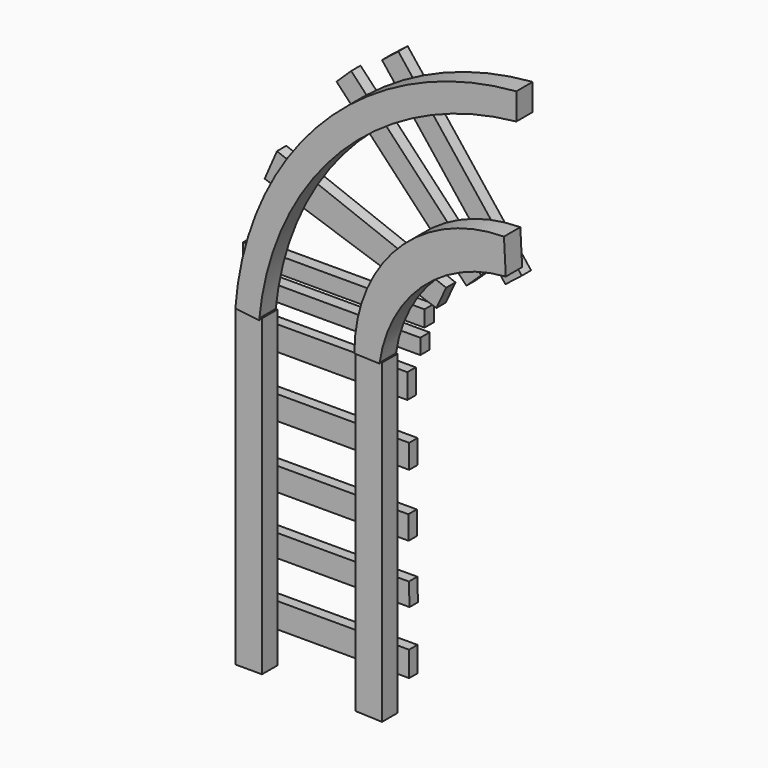
from build123d import *

# Parameters (mm, degrees)
F1_DEPTH = 4.191
F3_DEPTH = 2.286
F5_DEPTH = 4.445
F6_W     = 39.433528
F6_H     = 3.509536
F7_DEPTH = 2.54


with BuildPart() as f1:
    # F0 (on Front) → F1 (new body)
    with BuildSketch(Plane.XZ):
        Polygon((-57.963263, 55.789638), (-63.759588, 55.996653), (-63.759588, -12.317193), (-57.963263, -12.317193), align=None)
        Polygon((-37.676118, 55.789638), (-37.676118, -12.731216), (-31.879794, -12.938244), (-31.879794, 55.789638), align=None)
    extrude(amount=F1_DEPTH)


with BuildPart() as f3:
    # F2 (on Front) → F3 (new body)
    with BuildSketch(Plane.XZ):
        Polygon((-29.343544, 0), (-66.561639, 0), (-66.561639, -5.438766), (-29.333634, -5.438766), align=None)
        Polygon((-29.392071, 13.026311), (-66.347785, 13.026311), (-66.347785, 8.180217), (-29.245931, 8.180217), align=None)
        Polygon((-29.507961, 25.863055), (-66.645918, 25.863055), (-66.694123, 20.803697), (-29.441803, 20.803697), align=None)
        Polygon((-29.323313, 39.587658), (-66.647872, 39.587658), (-66.642486, 34.418572), (-29.323313, 34.418572), align=None)
        Polygon((-29.716219, 52.974727), (-66.481624, 52.936418), (-66.481624, 47.646478), (-29.716219, 47.646478), align=None)
    extrude(amount=-F3_DEPTH)


with BuildPart() as f5:
    # F4 (on Front) → F5 (new body)
    with BuildSketch(Plane.XZ):
        with BuildLine():
            Line((-2.484143, 111.592305), (-2.484143, 117.375842))
            ThreePointArc((-2.484143, 117.375842), (-44.356682, 97.967163), (-63.552573, 55.996649))
            Line((-63.552573, 55.996649), (-58.377285, 55.375613))
            ThreePointArc((-58.377285, 55.375613), (-40.530603, 93.52572), (-2.484143, 111.592305))
        make_face()
        with BuildLine():
            Line((-4.768864, 81.185567), (-5.175292, 88.704489))
            ThreePointArc((-5.175292, 88.704489), (-28.227611, 78.963409), (-37.676122, 55.789638))
            Line((-37.676122, 55.789638), (-32.226157, 55.602058))
            ThreePointArc((-32.226157, 55.602058), (-23.038036, 73.266894), (-4.768864, 81.185567))
        make_face()
    extrude(amount=F5_DEPTH)


with BuildPart() as f7:
    # F6 (on Front) → F7 (new body)
    with BuildSketch(Plane.XZ):
        Polygon((-26.914913, 60.478963), (-65.43088, 60.478963), (-65.380457, 57.149801), (-26.914913, 57.149801), align=None)
        Polygon((-58.056425, 86.049438), (-60.735455, 79.898563), (-23.407212, 67.300513), (-21.301758, 71.868613), align=None)
        Polygon((-41.93192, 106.633499), (-45.112383, 103.558205), (-16.888487, 73.687926), (-13.673015, 76.726168), align=None)
        Polygon((-31.684886, 113.693937), (-35.23431, 110.908709), (-8.411325, 76.726168), (-4.861901, 79.511395), align=None)
        with Locations((-45.714116, 64.455658)):
            Rectangle(F6_W, F6_H)
    extrude(amount=-F7_DEPTH)


solid = Compound([f1.part, f3.part, f5.part, f7.part])
